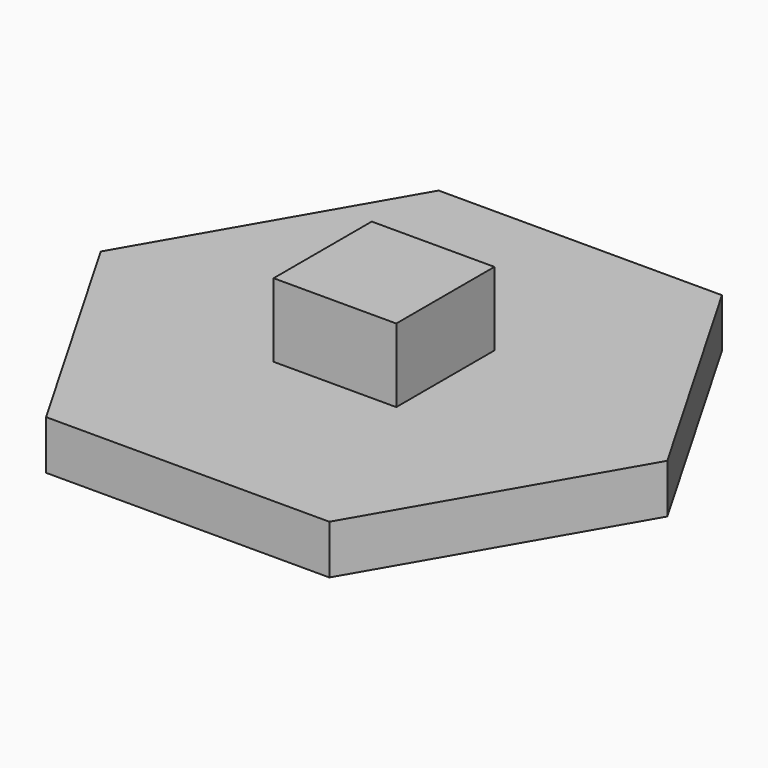
from build123d import *

# Parameters (mm, degrees)
F1_DEPTH = 2
F2_W     = 5
F2_H     = 5
F3_DEPTH = 3


with BuildPart() as f1:
    # F0 (on Top) → F1 (new body)
    with BuildSketch(Plane.XY):
        Polygon((5.773503, 10), (-5.773503, 10), (-11.547005, 0), (-5.773503, -10), (5.773503, -10), (11.547005, 0), align=None)
    extrude(amount=F1_DEPTH)

    # F2 (on face) → F3 (join)
    with BuildSketch(Plane.XY.offset(2)):
        Rectangle(F2_W, F2_H)
    extrude(amount=F3_DEPTH)


solid = f1.part
